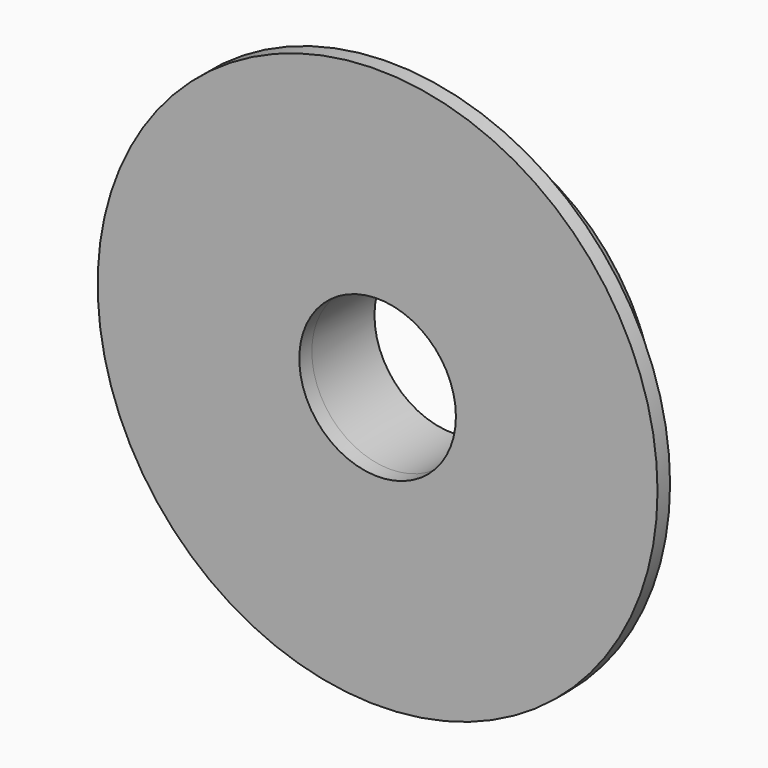
from build123d import *

# Parameters (mm, degrees)
F0_R     = 35.75
F0_R_2   = 10
F1_DEPTH = 2
F2_R     = 27
F2_R_2   = 10
F3_DEPTH = 10
F4_R     = 2


with BuildPart() as f1:
    # F0 (on Front) → F1 (new body)
    with BuildSketch(Plane.XZ):
        Circle(F0_R)
        Circle(F0_R_2, mode=Mode.SUBTRACT)
    extrude(amount=F1_DEPTH)

    # F2 (on face) → F3 (join)
    with BuildSketch(Plane(origin=(0, 0, 0), x_dir=(-1, 0, 0), z_dir=(0, 1, 0))):
        Circle(F2_R)
        Circle(F2_R_2, mode=Mode.SUBTRACT)
    extrude(amount=F3_DEPTH)

    # F4
    f4_edges = [f1.edges().sort_by_distance(p)[0] for p in [
        (27, 10, 0),
    ]]
    fillet(f4_edges, radius=F4_R)


solid = f1.part
